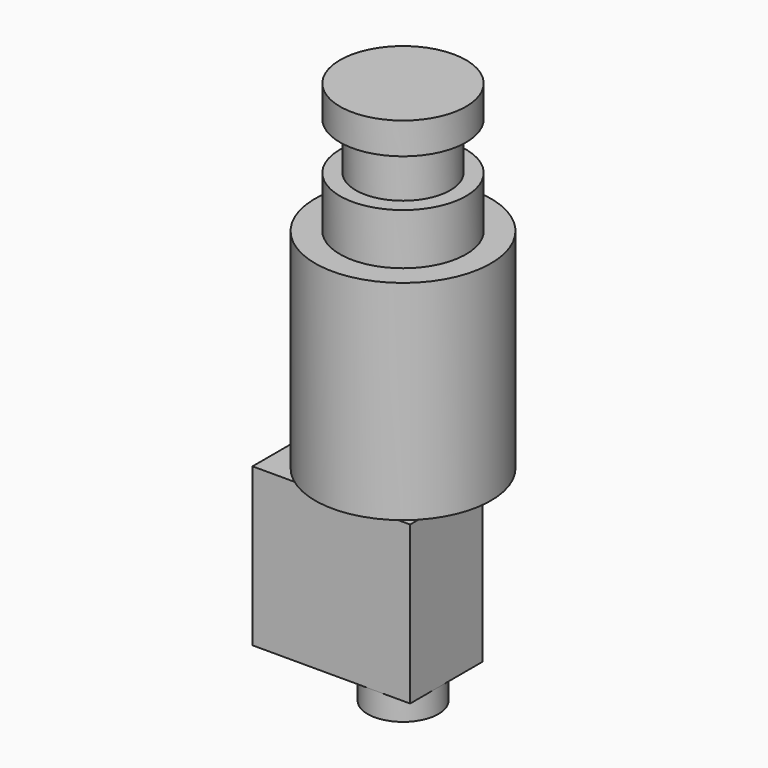
from build123d import *

# Parameters (mm, degrees)
PAD006_DEPTH = 4.5
PAD007_DEPTH = 7


with BuildPart() as part:
    # Sketch015 → Revolution (revolve)
    with BuildSketch(Plane.YZ):
        Polygon((0, 4), (8, 4), (8, 0), (6, 0), (6, -6), (8, -6), (8, -12.5), (11.15, -12.5), (11.15, -39), (3.5, -39), (3.5, -62), (4.5, -62), (4.5, -65), (1.9004150762, -65), (0.5, -67), (0, -67), align=None)
    revolve(axis=Axis((0, 0, 0), (0, 0, 1)))

    # Sketch016 → Pad006 (new body)
    with BuildSketch(Plane.XZ):
        Polygon((-3.5, -62), (-15.5, -62), (-15.5, -42), (4.5, -42), (4.5, -62), (3.5, -62), align=None)
    extrude(amount=PAD006_DEPTH)

    # Sketch016 → Pad007 (join)
    with BuildSketch(Plane.XZ):
        Polygon((-3.5, -62), (-15.5, -62), (-15.5, -42), (4.5, -42), (4.5, -62), (3.5, -62), align=None)
    extrude(amount=-PAD007_DEPTH)


solid = part.part
